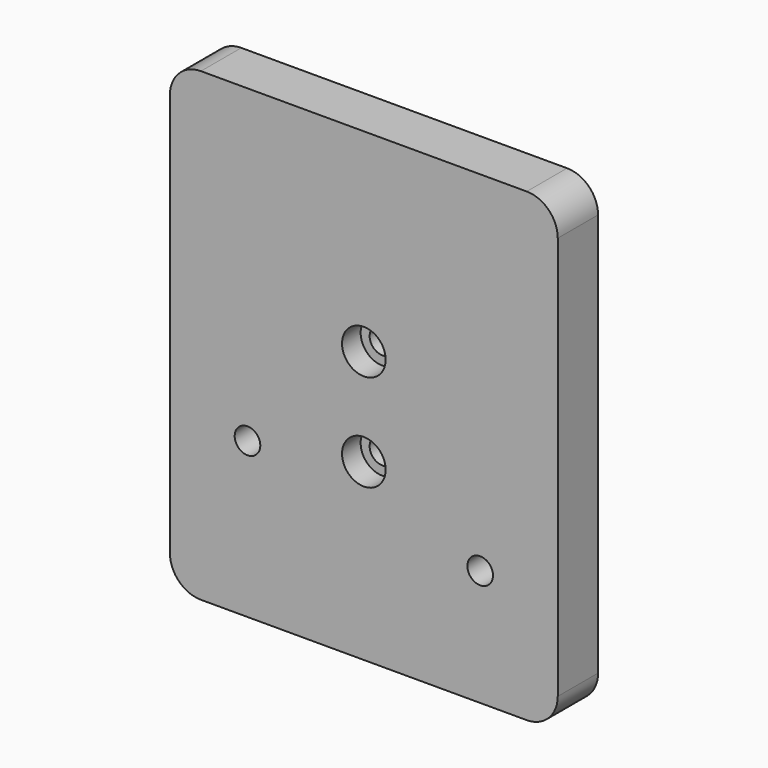
from build123d import *

# Parameters (mm, degrees)
F0_W           = 100
F0_H           = 120
F1_DEPTH       = 13
F3_D           = 6.6
F4_D           = 6.6
F4_CBORE_D     = 11.25
F4_CBORE_DEPTH = 6
F5_R           = 8


with BuildPart() as f1:
    # F0 (on Front) → F1 (new body)
    with BuildSketch(Plane.XZ):
        with Locations((50, 60)):
            Rectangle(F0_W, F0_H)
        with Locations((50, 60)):
            Rectangle(F0_W, F0_H)
    extrude(amount=F1_DEPTH)

    # F3 (through all)
    with Locations(Plane.XZ.offset(13)):
        with Locations((80, 30), (20, 40)):
            Hole(F3_D / 2)

    # F4 (through all)
    with Locations(Plane.XZ.offset(13)):
        with Locations((50, 70), (50, 45)):
            CounterBoreHole(F4_D / 2, F4_CBORE_D / 2, F4_CBORE_DEPTH)

    # F5
    f5_edges = [f1.edges().sort_by_distance(p)[0] for p in [
        (100, -6.5, 120),
        (100, -6.5, 0),
        (0, -6.5, 120),
        (0, -6.5, 0),
    ]]
    fillet(f5_edges, radius=F5_R)


solid = f1.part
